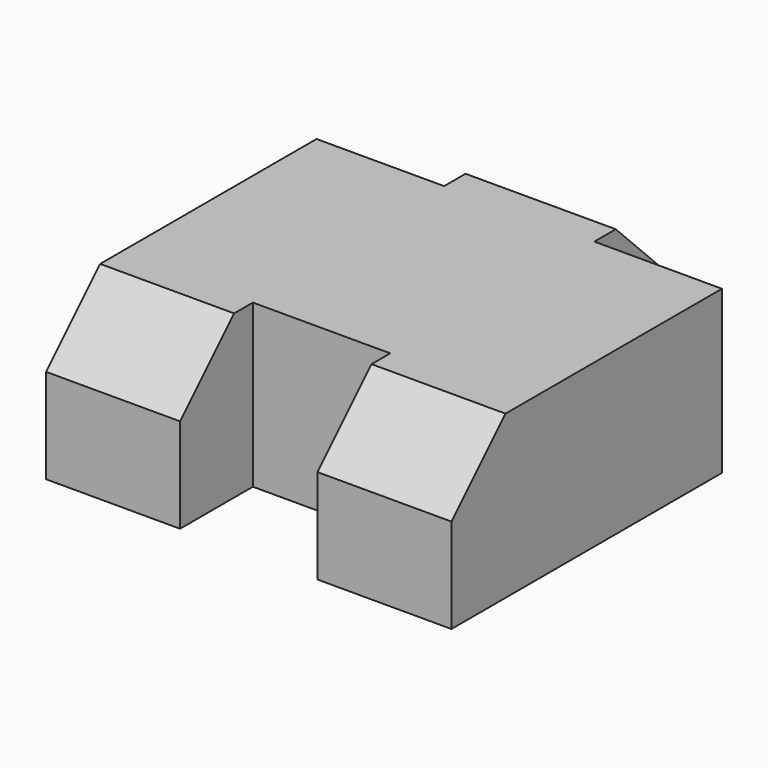
from build123d import *

# Parameters (mm, degrees)
SKETCH026_W             = 3.2
SKETCH026_H             = 3
PAD024_DEPTH            = 1.2
CHAMFER010_SIZE         = 0.5
SKETCH027_W             = 1.850896
SKETCH027_H             = 1.017
SKETCH027_W_2           = 1.709498
SKETCH027_H_2           = 1.155216
POCKET002_DEPTH         = 5
BODY024_PLACEMENT_ANGLE = 90


with BuildPart() as part:
    # Sketch026 → Pad024 (new body)
    with BuildSketch(Plane.XY):
        Rectangle(SKETCH026_W, SKETCH026_H)
    extrude(amount=PAD024_DEPTH)

    # Chamfer010
    chamfer010_edges = [part.edges().sort_by_distance(p)[0] for p in [
        (-1.6, 0, 1.2),
        (1.6, 0, 1.2),
    ]]
    chamfer(chamfer010_edges, length=CHAMFER010_SIZE)

    # Sketch027 (on Face5 of Chamfer010) → Pocket002 (cut)
    with BuildSketch(Plane.XY.offset(1.2)):
        with Locations((-1.851985, 0)):
            Rectangle(SKETCH027_W, SKETCH027_H)
        with Locations((1.75658, 1.133439)):
            Rectangle(SKETCH027_W_2, SKETCH027_H_2)
        with Locations((1.75658, -1.133439)):
            Rectangle(SKETCH027_W_2, SKETCH027_H_2)
    extrude(amount=-POCKET002_DEPTH, mode=Mode.SUBTRACT)


with BuildPart() as part_1:
    # Body024 placement: moved
    add(part.part.rotate(Axis((0, 0, 0), (0, 0, 1)), BODY024_PLACEMENT_ANGLE))


solid = part_1.part
